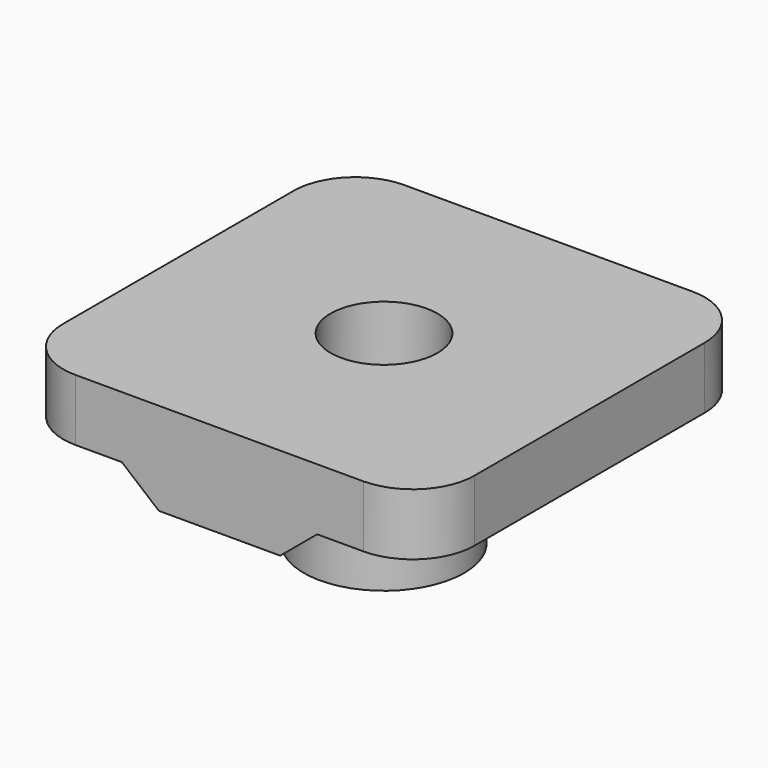
from build123d import *

# Parameters (mm, degrees)
SKETCH_W        = 20
SKETCH_H        = 20
SKETCH_R        = 2.6
PAD_DEPTH       = 3
SKETCH001_R     = 3.9
SKETCH001_R_2   = 2.6
PAD001_DEPTH    = 6
PAD002_DEPTH    = 20
PAD002_FACE16_R = 2.6
POCKET_DEPTH    = 6.001
FILLET_R        = 3


with BuildPart() as part:
    # Sketch → Pad (new body)
    with BuildSketch(Plane.XY):
        Rectangle(SKETCH_W, SKETCH_H)
        Circle(SKETCH_R, mode=Mode.SUBTRACT)
    extrude(amount=PAD_DEPTH)

    # Sketch001 (on Face6 of Pad) → Pad001 (join)
    with BuildSketch(Plane(origin=(0, 0, 0), x_dir=(1, 0, 0), z_dir=(0, 0, -1))):
        Circle(SKETCH001_R)
        Circle(SKETCH001_R_2, mode=Mode.SUBTRACT)
    extrude(amount=PAD001_DEPTH)

    # Sketch002 (on Face1 of Pad001) → Pad002 (join)
    with BuildSketch(Plane(origin=(0, 10, 0), x_dir=(-1, 0, 0), z_dir=(0, 1, 0))):
        Polygon((-4.75, 0), (4.75, 0), (2.95, -1.5), (-2.95, -1.5), align=None)
    extrude(amount=-PAD002_DEPTH)

    # Pad002 Face16 → Pocket (cut, through all)
    with BuildSketch(Plane(origin=(0, 0, 0), x_dir=(0, 1, 0), z_dir=(0, 0, 1))):
        Circle(PAD002_FACE16_R)
    extrude(amount=-POCKET_DEPTH, mode=Mode.SUBTRACT)

    # Fillet
    fillet_edges = [part.edges().sort_by_distance(p)[0] for p in [
        (10, -10, 1.5),
        (-10, -10, 1.5),
        (10, 10, 1.5),
        (-10, 10, 1.5),
    ]]
    fillet(fillet_edges, radius=FILLET_R)


solid = part.part
